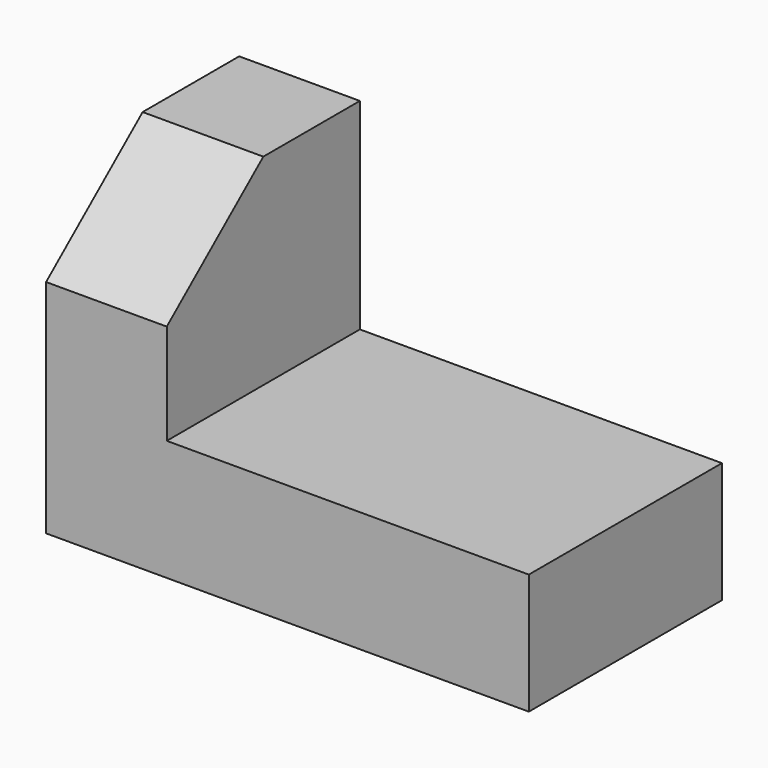
from build123d import *

# Parameters (mm, degrees)
F1_DEPTH = 76.2
F3_DEPTH = 38.101


with BuildPart() as f1:
    # F0 (on Front) → F1 (new body)
    with BuildSketch(Plane.XZ):
        Polygon((0, 101.6), (0, 0), (152.4, 0), (152.4, 38.1), (38.1, 38.1), (38.1, 101.6), align=None)
    extrude(amount=F1_DEPTH)

    # F2 (on face) → F3 (cut, through all)
    with BuildSketch(Plane.YZ.offset(38.1)):
        Polygon((-76.2, 69.85), (-38.1, 101.6), (-76.2, 101.6), align=None)
    extrude(amount=-F3_DEPTH, mode=Mode.SUBTRACT)


solid = f1.part
